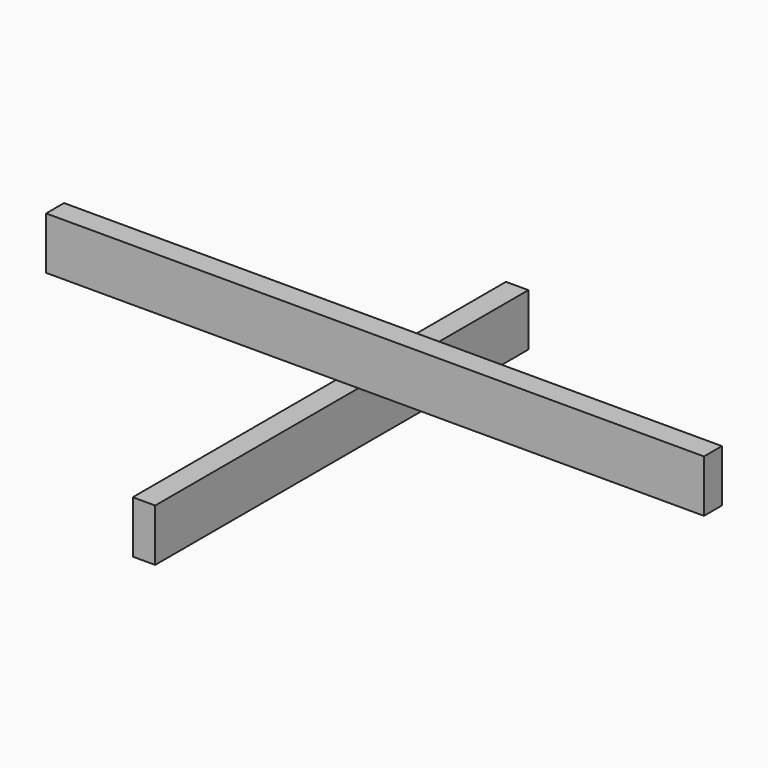
from build123d import *

# Parameters (mm, degrees)
F0_W     = 1117.6
F0_H     = 88.9
F1_DEPTH = 38.1
F2_W     = 792.48
F2_H     = 88.9
F3_DEPTH = 38.1


with BuildPart() as f1:
    # F0 (on Front) → F1 (new body)
    with BuildSketch(Plane.XZ):
        with Locations((114.290971, 24.785625)):
            Rectangle(F0_W, F0_H)
    extrude(amount=F1_DEPTH)


with BuildPart() as f3:
    # F2 (on Right) → F3 (new body)
    with BuildSketch(Plane.YZ):
        with Locations((-13.443186, -104.066158)):
            Rectangle(F2_W, F2_H)
    extrude(amount=F3_DEPTH)


solid = Compound([f1.part, f3.part])
